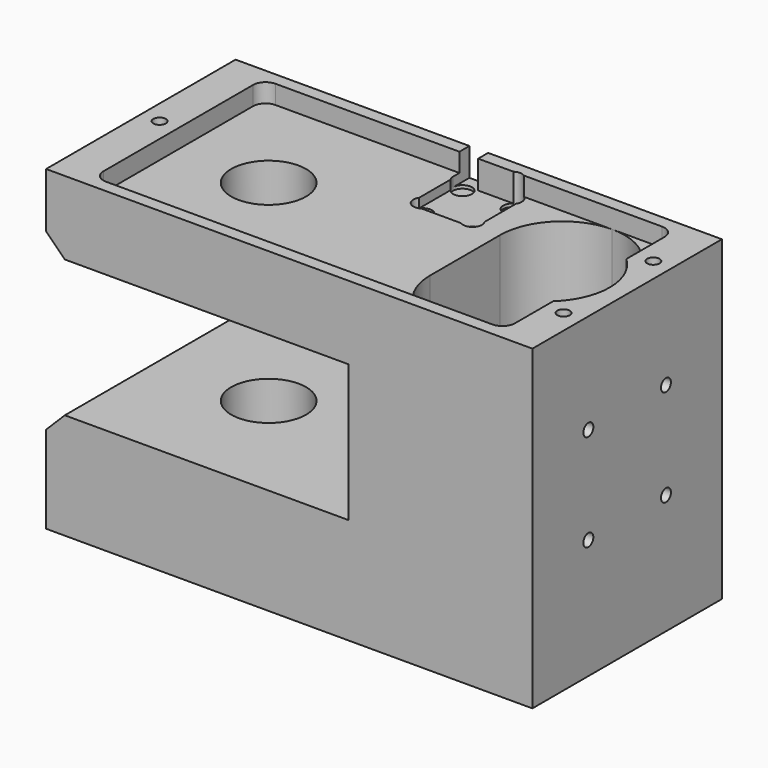
from build123d import *

# Parameters (mm, degrees)
F0_W      = 78
F0_H      = 50.8
F1_DEPTH  = 38
F3_DEPTH  = 3
F5_DEPTH  = 50.8
F7_DEPTH  = 4.5
F8_R      = 1.5
F9_DEPTH  = 5
F10_W     = 3
F10_H     = 3.25
F11_DEPTH = 4.5
F12_R     = 6
F13_DEPTH = 51
F15_DEPTH = 3
F16_W     = 48.5
F16_H     = 22
F17_DEPTH = 38
F18_SIZE  = 3
F19_R     = 1
F20_DEPTH = 8
F21_R     = 1
F22_DEPTH = 8
F23_R     = 1
F24_DEPTH = 8
F25_R     = 1
F26_DEPTH = 10


with BuildPart() as f1:
    # F0 (on Front) → F1 (new body)
    with BuildSketch(Plane.XZ):
        with Locations((39, 25.4)):
            Rectangle(F0_W, F0_H)
    extrude(amount=F1_DEPTH)

    # F2 (on face) → F3 (cut)
    with BuildSketch(Plane.XY.offset(50.8)):
        with BuildLine():
            Line((70, -2), (8, -2))
            ThreePointArc((8, -2), (6.5857864376, -2.5857864376), (6, -4))
            Line((6, -4), (6, -34))
            ThreePointArc((6, -34), (6.5857864376, -35.4142135624), (8, -36))
            Line((8, -36), (70, -36))
            ThreePointArc((70, -36), (71.4142135624, -35.4142135624), (72, -34))
            Line((72, -34), (72, -4))
            ThreePointArc((72, -4), (71.4142135624, -2.5857864376), (70, -2))
        make_face()
    extrude(amount=-F3_DEPTH, mode=Mode.SUBTRACT)

    # F4 (on face) → F5 (cut, through all)
    with BuildSketch(Plane.XY.offset(50.8)):
        with BuildLine():
            ThreePointArc((62, -2), (54.9289321881, -4.9289321881), (52, -12))
            Line((52, -12), (52, -26))
            ThreePointArc((52, -26), (54.9289321881, -33.0710678119), (62, -36))
            ThreePointArc((62, -36), (68.9507563357, -33.1893662003), (71.9943065333, -26.3373972723))
            ThreePointArc((71.9943065333, -26.3373972723), (75.2, -19), (71.9943065333, -11.6626027277))
            ThreePointArc((71.9943065333, -11.6626027277), (68.9507563357, -4.8106337997), (62, -2))
        make_face()
    extrude(amount=-F5_DEPTH, mode=Mode.SUBTRACT)

    # F6 (on face) → F7 (cut)
    with BuildSketch(Plane.XY.offset(50.8)):
        with BuildLine():
            Line((47.25, -2), (38.75, -2))
            ThreePointArc((38.75, -2), (38.0428932188, -2.2928932188), (37.75, -3))
            Line((37.75, -3), (37.75, -11.5))
            ThreePointArc((37.75, -11.5), (38.0428932188, -12.2071067812), (38.75, -12.5))
            Line((38.75, -12.5), (47.25, -12.5))
            ThreePointArc((47.25, -12.5), (47.9571067812, -12.2071067812), (48.25, -11.5))
            Line((48.25, -11.5), (48.25, -3))
            ThreePointArc((48.25, -3), (47.9571067812, -2.2928932188), (47.25, -2))
        make_face()
    extrude(amount=-F7_DEPTH, mode=Mode.SUBTRACT)

    # F8 (on face) → F9 (cut)
    with BuildSketch(Plane.XY.offset(50.8)):
        with Locations((47, -11.25)):
            Circle(F8_R)
        with Locations((39, -11.25)):
            Circle(F8_R)
        with Locations((39, -3.25)):
            Circle(F8_R)
        with Locations((47, -3.25)):
            Circle(F8_R)
    extrude(amount=-F9_DEPTH, mode=Mode.SUBTRACT)

    # F10 (on face) → F11 (cut)
    with BuildSketch(Plane.XY.offset(50.8)):
        with Locations((39, -1.625)):
            Rectangle(F10_W, F10_H)
    extrude(amount=-F11_DEPTH, mode=Mode.SUBTRACT)

    # F12 (on face) → F13 (cut)
    with BuildSketch(Plane.XY.offset(50.8)):
        with Locations((20.5, -19)):
            Circle(F12_R)
    extrude(amount=-F13_DEPTH, mode=Mode.SUBTRACT)

    # F14 (on face) → F15 (cut)
    with BuildSketch(Plane(origin=(0, 0, 0), x_dir=(1, 0, 0), z_dir=(0, 0, -1))):
        with BuildLine():
            Line((70, 36), (8, 36))
            ThreePointArc((8, 36), (6.5857864376, 35.4142135624), (6, 34))
            Line((6, 34), (6, 4))
            ThreePointArc((6, 4), (6.5857864376, 2.5857864376), (8, 2))
            Line((8, 2), (70, 2))
            ThreePointArc((70, 2), (71.4142135624, 2.5857864376), (72, 4))
            Line((72, 4), (72, 34))
            ThreePointArc((72, 34), (71.4142135624, 35.4142135624), (70, 36))
        make_face()
    extrude(amount=-F15_DEPTH, mode=Mode.SUBTRACT)

    # F16 (on face) → F17 (cut, through all)
    with BuildSketch(Plane.XZ.offset(38)):
        with Locations((24.25, 28)):
            Rectangle(F16_W, F16_H)
    extrude(amount=-F17_DEPTH, mode=Mode.SUBTRACT)

    # F18
    f18_edges = [f1.edges().sort_by_distance(p)[0] for p in [
        (0, -19, 39),
        (0, -19, 17),
    ]]
    chamfer(f18_edges, length=F18_SIZE)

    # F19 (on face) → F20 (cut)
    with BuildSketch(Plane.XY.offset(50.8)):
        with Locations((3, -19)):
            Circle(F19_R)
        with Locations((75, -10)):
            Circle(F19_R)
        with Locations((75, -28)):
            Circle(F19_R)
    extrude(amount=-F20_DEPTH, mode=Mode.SUBTRACT)

    # F21 (on face) → F22 (cut)
    with BuildSketch(Plane(origin=(0, 0, 0), x_dir=(1, 0, 0), z_dir=(0, 0, -1))):
        with Locations((75, 28)):
            Circle(F21_R)
        with Locations((75, 10)):
            Circle(F21_R)
        with Locations((3, 19)):
            Circle(F21_R)
    extrude(amount=-F22_DEPTH, mode=Mode.SUBTRACT)

    # F23 (on face) → F24 (cut)
    with BuildSketch(Plane(origin=(0, 0, 3), x_dir=(1, 0, 0), z_dir=(0, 0, -1))):
        with Locations((41.5, 15)):
            Circle(F23_R)
    extrude(amount=-F24_DEPTH, mode=Mode.SUBTRACT)

    # F25 (on face) → F26 (cut)
    with BuildSketch(Plane.YZ.offset(78)):
        with Locations((-26.7781745931, 34.7781745931)):
            Circle(F25_R)
        with Locations((-11.2218254069, 34.7781745931)):
            Circle(F25_R)
        with Locations((-26.7781745931, 19.2218254069)):
            Circle(F25_R)
        with Locations((-11.2218254069, 19.2218254069)):
            Circle(F25_R)
    extrude(amount=-F26_DEPTH, mode=Mode.SUBTRACT)


solid = f1.part
